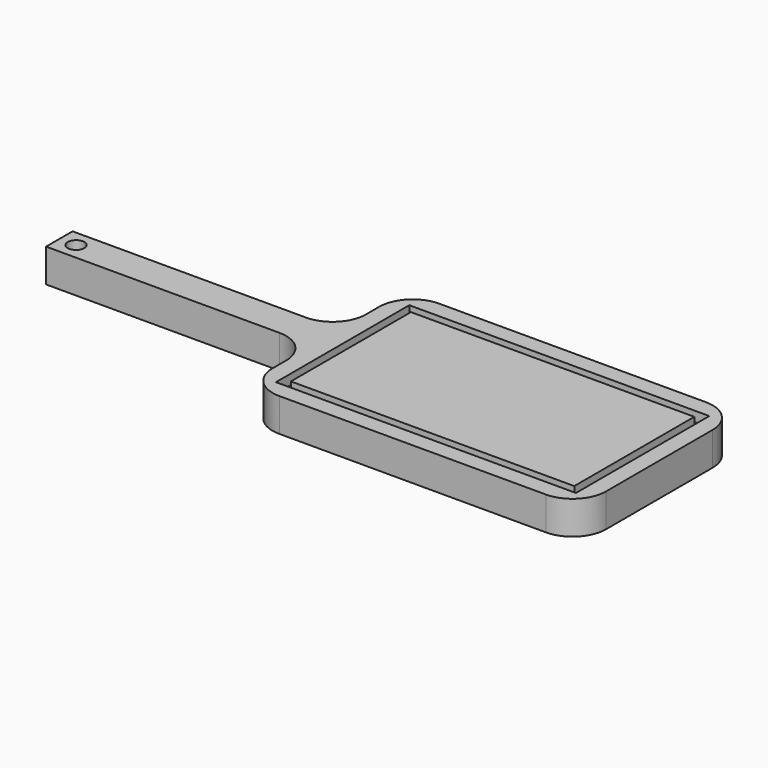
from build123d import *

# Parameters (mm, degrees)
F0_W     = 203.2
F0_H     = 25.231637
F1_DEPTH = 25.4
F2_R     = 6.35
F3_DEPTH = 25.4
F5_DEPTH = 7.62
F6_R     = 25.4
F7_R     = 25.4


with BuildPart() as f1:
    # F0 (on Top) → F1 (new body)
    with BuildSketch(Plane.XY):
        with Locations((-101.6, 76.284181)):
            Rectangle(F0_W, F0_H)
        Polygon((0, 63.668363), (0, 0), (254, 0), (254, 152.4), (0, 152.4), (0, 88.9), align=None)
    extrude(amount=-F1_DEPTH)

    # F2 (on face) → F3 (cut)
    with BuildSketch(Plane.XY):
        with Locations((-190.5, 76.368363)):
            Circle(F2_R)
    extrude(amount=-F3_DEPTH, mode=Mode.SUBTRACT)

    # F4 (on face) → F5 (cut)
    with BuildSketch(Plane.XY):
        Polygon((241.3, 139.7), (12.7, 139.7), (12.7, 76.368363), (12.7, 76.2), (12.7, 12.7), (241.3, 12.7), align=None)
        Polygon((19.05, 82.718363), (19.05, 133.35), (234.95, 133.35), (234.95, 19.05), (19.05, 19.05), (19.05, 69.85), align=None, mode=Mode.SUBTRACT)
    extrude(amount=-F5_DEPTH, mode=Mode.SUBTRACT)

    # F6
    f6_edges = [f1.edges().sort_by_distance(p)[0] for p in [
        (0, 152.4, -12.7),
        (0, 88.9, -12.7),
    ]]
    fillet(f6_edges, radius=F6_R)

    # F7
    f7_edges = [f1.edges().sort_by_distance(p)[0] for p in [
        (0, 63.668363, -12.7),
        (0, 0, -12.7),
        (254, 152.4, -12.7),
        (254, 0, -12.7),
    ]]
    fillet(f7_edges, radius=F7_R)


solid = f1.part
